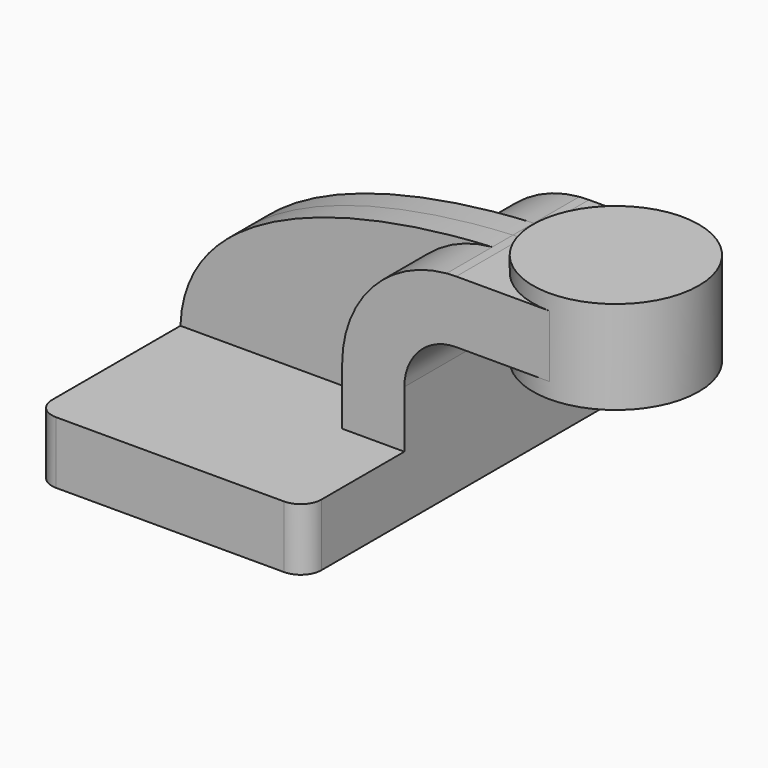
from build123d import *

# Parameters (mm, degrees)
F1_DEPTH = 63.5
F2_DEPTH = 25.4
F3_DEPTH = 7.9375
F0_W     = 25.4
F0_H     = 19.0500000358
F4_DEPTH = 25.4
F6_R     = 6.35


with BuildPart() as f1:
    # F0 (on Front) → F1 (new body, symmetric)
    with BuildSketch(Plane.XZ):
        Polygon((41.275, -9.525), (41.275, 9.525), (22.2249999642, 9.525), (-41.275, 9.525), (-41.275, -9.525), align=None)
    extrude(amount=F1_DEPTH, both=True)

    # F0 (on Front) → F2 (join, symmetric)
    with BuildSketch(Plane.XZ):
        with BuildLine():
            Line((22.2249999642, 9.525), (41.275, 9.525))
            Line((41.275, 9.525), (41.275, 27.0002))
            ThreePointArc((41.275, 27.0002), (45.9246798487, 38.2255201513), (57.15, 42.8752))
            Line((57.15, 42.8752), (60.325, 42.8752))
            Line((60.325, 42.8752), (60.325, 61.9252000358))
            Line((60.325, 61.9252000358), (57.15, 61.9252000358))
            add(Edge.make_bspline(
                [(54.2137588314, 61.801552205), (55.2005191802, 61.8492221851), (56.1795792911, 61.8903742324), (57.15, 61.9252000358)],
                knots=[108.8573598522, 108.8573598522, 108.8573598522, 108.8573598522, 111.5045361803, 111.5045361803, 111.5045361803, 111.5045361803], degree=3))
            ThreePointArc((54.2137588314, 61.801552205), (31.4371253025, 50.6349985456), (22.2249999642, 27.0002))
            Line((22.2249999642, 27.0002), (22.2249999642, 9.525))
        make_face()
    extrude(amount=F2_DEPTH, both=True)

    # F0 (on Front) → F3 (join, symmetric)
    with BuildSketch(Plane.XZ):
        with BuildLine():
            Line((-41.275, 9.525), (22.2249999642, 9.525))
            Line((22.2249999642, 9.525), (22.2249999642, 27.0002))
            ThreePointArc((22.2249999642, 27.0002), (31.4371253025, 50.6349985456), (54.2137588314, 61.801552205))
            add(Edge.make_bspline(
                [(-41.275, 9.525), (-39.9627792732, 46.8589932408), (13.6361345752, 59.8412641353), (54.2137588314, 61.801552205)],
                knots=[0, 0, 0, 0, 108.8573598522, 108.8573598522, 108.8573598522, 108.8573598522], degree=3))
        make_face()
    extrude(amount=F3_DEPTH, both=True)

    # F0 (on Front) → F4 (join, symmetric)
    with BuildSketch(Plane.XZ):
        with Locations((73.025, 52.4002000179)):
            Rectangle(F0_W, F0_H)
    extrude(amount=F4_DEPTH, both=True)

    # F0 (on Front) → F5 (revolve)
    with BuildSketch(Plane.XZ):
        Polygon((85.725, 61.9252000358), (85.725, 42.8752), (85.725, 38.1), (111.125, 38.1), (111.125, 66.675), (85.725, 66.675), align=None)
    revolve(axis=Axis((85.725, 0, 52.3875), (0, 0, 1)))

    # F6
    f6_edges = [f1.edges().sort_by_distance(p)[0] for p in [
        (41.275, -63.5, 0),
        (-41.275, -63.5, 0),
        (-41.275, 63.5, 0),
        (41.275, 63.5, 0),
    ]]
    fillet(f6_edges, radius=F6_R)


solid = f1.part
